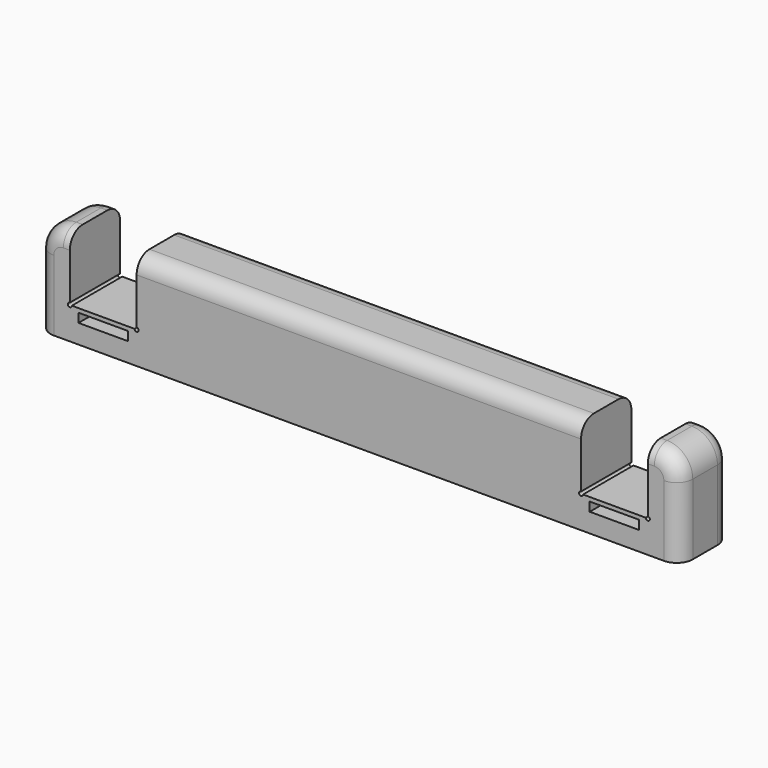
from build123d import *

# Parameters (mm, degrees)
F0_W     = 6.35
F0_H     = 12.446
F0_W_2   = 13.208
F0_W_3   = 87.884
F1_DEPTH = 6.35
F2_DEPTH = 12.7
F4_DEPTH = 12.447
F5_R     = 5.08
F6_R     = 3.175
F7_W     = 9.779
F7_H     = 1.778
F8_DEPTH = 12.447


with BuildPart() as f1:
    # F0 (on Top) → F1 (new body)
    with BuildSketch(Plane.XY):
        with Locations((-60.325, 0)):
            Rectangle(F0_W, F0_H)
        with Locations((-50.546, 0)):
            Rectangle(F0_W_2, F0_H)
        Rectangle(F0_W_3, F0_H)
        with Locations((50.546, 0)):
            Rectangle(F0_W_2, F0_H)
        with Locations((60.325, 0)):
            Rectangle(F0_W, F0_H)
    extrude(amount=-F1_DEPTH)

    # F0 (on Top) → F2 (join)
    with BuildSketch(Plane.XY):
        with Locations((-60.325, 0)):
            Rectangle(F0_W, F0_H)
        Rectangle(F0_W_3, F0_H)
        with Locations((60.325, 0)):
            Rectangle(F0_W, F0_H)
    extrude(amount=F2_DEPTH)

    # F3 (on face) → F4 (cut, through all)
    with BuildSketch(Plane.XZ.offset(6.223)):
        with BuildLine():
            ThreePointArc((-57.15, 0.396875), (-57.4306330038, -0.2806330038), (-56.753125, 0))
            Line((-56.753125, 0), (-57.15, 0))
            Line((-57.15, 0), (-57.15, 0.396875))
        make_face()
        with BuildLine():
            Line((-43.942, 0), (-44.338875, 0))
            ThreePointArc((-44.338875, 0), (-43.942, -0.396875), (-43.545125, 0))
            ThreePointArc((-43.545125, 0), (-43.6613669962, 0.2806330038), (-43.942, 0.396875))
            Line((-43.942, 0.396875), (-43.942, 0))
        make_face()
        with BuildLine():
            Line((43.942, 0), (43.942, 0.396875))
            ThreePointArc((43.942, 0.396875), (43.6613669962, -0.2806330038), (44.338875, 0))
            Line((44.338875, 0), (43.942, 0))
        make_face()
        with BuildLine():
            Line((57.15, 0), (56.753125, 0))
            ThreePointArc((56.753125, 0), (57.15, -0.396875), (57.546875, 0))
            ThreePointArc((57.546875, 0), (57.4306330038, 0.2806330038), (57.15, 0.396875))
            Line((57.15, 0.396875), (57.15, 0))
        make_face()
    extrude(amount=-F4_DEPTH, mode=Mode.SUBTRACT)

    # F5
    f5_edges = [f1.edges().sort_by_distance(p)[0] for p in [
        (63.5, 0, 12.7),
        (-63.5, 0, 12.7),
    ]]
    fillet(f5_edges, radius=F5_R)

    # F6
    f6_edges = [f1.edges().sort_by_distance(p)[0] for p in [
        (0, -6.223, 12.7),
        (0, 6.223, 12.7),
        (-63.5, -6.223, 0.635),
        (63.5, -6.223, 0.635),
        (-63.5, 6.223, 0.635),
        (63.5, 6.223, 0.635),
    ]]
    fillet(f6_edges, radius=F6_R)

    # F7 (on face) → F8 (cut, through all)
    with BuildSketch(Plane.XZ.offset(6.223)):
        with Locations((-50.546, -1.68275)):
            Rectangle(F7_W, F7_H)
        with Locations((50.546, -1.68275)):
            Rectangle(F7_W, F7_H)
    extrude(amount=-F8_DEPTH, mode=Mode.SUBTRACT)


solid = f1.part
